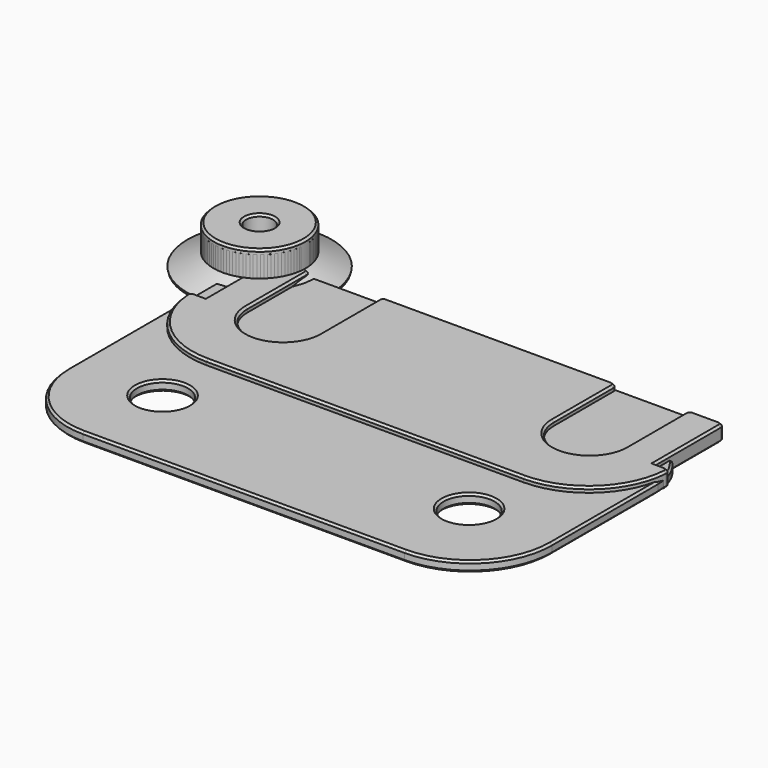
from build123d import *

# Parameters (mm, degrees)
SKETCH_W        = 94
SKETCH_H        = 62
PAD_DEPTH       = 2
FILLET_R        = 15
FILLET001_R     = 16
POCKET_DEPTH    = 2.001
FILLET002_R     = 1
FILLET003_R     = 3
SKETCH002_R     = 5
POCKET001_DEPTH = 2.001
CHAMFER_SIZE    = 0.4
CHAMFER001_SIZE = 1
CHAMFER002_SIZE = 0.4
CHAMFER006_SIZE = 0.4
POCKET006_DEPTH = 7.501
FILLET006_R     = 0.5
SKETCH007_W     = 94
SKETCH007_H     = 33
PAD001_DEPTH    = 3
POCKET004_DEPTH = 3.001
FILLET004_R     = 16
SKETCH009_W     = 3
SKETCH009_H     = 17
POCKET005_DEPTH = 3.001
FILLET005_R     = 1
CHAMFER005_SIZE = 0.4


with BuildPart() as body:
    # Sketch → Pad (new body)
    with BuildSketch(Plane.XY):
        with Locations((47, -31)):
            Rectangle(SKETCH_W, SKETCH_H)
    extrude(amount=PAD_DEPTH)

    # Fillet
    fillet_edges = [body.edges().sort_by_distance(p)[0] for p in [
        (0, -62, 1),
    ]]
    fillet(fillet_edges, radius=FILLET_R)

    # Fillet001
    fillet001_edges = [body.edges().sort_by_distance(p)[0] for p in [
        (94, -62, 1),
    ]]
    fillet(fillet001_edges, radius=FILLET001_R)

    # Sketch001 (on Face5 of Fillet001) → Pocket (cut, through all)
    with BuildSketch(Plane.XY.offset(2)):
        with BuildLine():
            ThreePointArc((94, -20), (91.071068, -12.928932), (84, -10))
            Line((84, -10), (84, 0))
            Line((94, 0), (84, 0))
            Line((94, 0), (94, -20))
        make_face()
    extrude(amount=-POCKET_DEPTH, mode=Mode.SUBTRACT)

    # Fillet002
    fillet002_edges = [body.edges().sort_by_distance(p)[0] for p in [
        (0, 0, 1),
        (84, 0, 1),
    ]]
    fillet(fillet002_edges, radius=FILLET002_R)

    # Fillet003
    fillet003_edges = [body.edges().sort_by_distance(p)[0] for p in [
        (84, -10, 1),
    ]]
    fillet(fillet003_edges, radius=FILLET003_R)

    # Sketch002 (on Face13 of Fillet003) → Pocket001 (cut, through all)
    with BuildSketch(Plane.XY.offset(2)):
        with Locations((17, -45)):
            Circle(SKETCH002_R)
        with Locations((77, -45)):
            Circle(SKETCH002_R)
    extrude(amount=-POCKET001_DEPTH, mode=Mode.SUBTRACT)

    # Chamfer
    chamfer_edges = [body.edges().sort_by_distance(p)[0] for p in [
        (84, -4.175445, 2),
        (84.646606, -9.21141, 2),
        (83.707107, -0.292893, 2),
        (91.844645, -13.798263, 2),
        (42, 0, 2),
        (94, -33, 2),
        (0.292893, -0.292893, 2),
        (89.313708, -57.313708, 2),
        (0, -24, 2),
        (46.5, -62, 2),
        (4.393398, -57.606602, 2),
        (12, -45, 2),
        (72, -45, 2),
        (84, -4.175445, 0),
        (84.646606, -9.21141, 0),
        (83.707107, -0.292893, 0),
        (91.844645, -13.798263, 0),
        (42, 0, 0),
        (94, -33, 0),
        (0.292893, -0.292893, 0),
        (89.313708, -57.313708, 0),
        (0, -24, 0),
        (46.5, -62, 0),
        (4.393398, -57.606602, 0),
        (12, -45, 0),
        (72, -45, 0),
    ]]
    chamfer(chamfer_edges, length=CHAMFER_SIZE)


with BuildPart() as body001:
    # Sketch003 → Revolution (revolve)
    with BuildSketch(Plane.XZ):
        Polygon((-15, 0), (-9, 3), (-9, 8), (-2.65, 8), (-2.65, 4.5), (-5.25, 4.5), (-5.25, 0), align=None)
    revolve(axis=Axis((0, 0, 0), (0, 0, 1)))

    # Chamfer001
    chamfer001_edges = [body001.edges().sort_by_distance(p)[0] for p in [
        (15, 0, 0),
    ]]
    chamfer(chamfer001_edges, length=CHAMFER001_SIZE)

    # Chamfer002
    chamfer002_edges = [body001.edges().sort_by_distance(p)[0] for p in [
        (2.65, 0, 8),
        (9, 0, 8),
        (5.25, 0, 0),
    ]]
    chamfer(chamfer002_edges, length=CHAMFER002_SIZE)


with BuildPart() as body002:
    # Sketch004 → Revolution001 (revolve)
    with BuildSketch(Plane.XZ):
        Polygon((-3.2, 5.5), (-3.7, 5), (-3.7, 2), (0, 2), (0, 0), (-9, 0), (-9, 7.5), (-3.95, 7.5), align=None)
    revolve(axis=Axis((0, 0, 0), (0, 0, 1)))

    # Chamfer006
    chamfer006_edges = [body002.edges().sort_by_distance(p)[0] for p in [
        (9, 0, 7.5),
        (9, 0, 0),
    ]]
    chamfer(chamfer006_edges, length=CHAMFER006_SIZE)

    # Sketch010 (on Face5 of Chamfer006) → Pocket006 (cut, through all)
    with BuildSketch(Plane(origin=(0, 0, 7.5), x_dir=(-1, 0, 0), z_dir=(0, 0, 1))):
        with BuildLine():
            ThreePointArc((5.91608, -1), (6, 0), (5.91608, 1))
            Line((-10, 1), (5.91608, 1))
            Line((-10, 1), (-10, -1))
            Line((-10, -1), (5.91608, -1))
        make_face()
    extrude(amount=-POCKET006_DEPTH, mode=Mode.SUBTRACT)

    # Fillet006
    fillet006_edges = [body002.edges().sort_by_distance(p)[0] for p in [
        (-5.91608, 1, 3.75),
        (-5.91608, -1, 3.75),
    ]]
    fillet(fillet006_edges, radius=FILLET006_R)


with BuildPart() as body003:
    # Sketch007 → Pad001 (new body)
    with BuildSketch(Plane.XY):
        with Locations((47, -16.5)):
            Rectangle(SKETCH007_W, SKETCH007_H)
    extrude(amount=PAD001_DEPTH)

    # Sketch008 (on Face6 of Pad001) → Pocket004 (cut, through all)
    with BuildSketch(Plane.XY.offset(3)):
        with BuildLine():
            ThreePointArc((10, -15.5), (17, -22.5), (24, -15.5))
            Line((24, 0), (24, -15.5))
            Line((10, 0), (24, 0))
            Line((10, -15.5), (10, 0))
        make_face()
        with BuildLine():
            ThreePointArc((70, -15.5), (77, -22.5), (84, -15.5))
            Line((84, 0), (84, -15.5))
            Line((70, 0), (84, 0))
            Line((70, -15.5), (70, 0))
        make_face()
    extrude(amount=-POCKET004_DEPTH, mode=Mode.SUBTRACT)

    # Fillet004
    fillet004_edges = [body003.edges().sort_by_distance(p)[0] for p in [
        (0, -33, 1.5),
        (94, -33, 1.5),
    ]]
    fillet(fillet004_edges, radius=FILLET004_R)

    # Sketch009 (on Face16 of Fillet004) → Pocket005 (cut, through all)
    with BuildSketch(Plane.XY.offset(3)):
        with Locations((1.5, -8.5)):
            Rectangle(SKETCH009_W, SKETCH009_H)
        with Locations((92.5, -8.5)):
            Rectangle(SKETCH009_W, SKETCH009_H)
    extrude(amount=-POCKET005_DEPTH, mode=Mode.SUBTRACT)

    # Fillet005
    fillet005_edges = [body003.edges().sort_by_distance(p)[0] for p in [
        (0, -17, 1.5),
        (3, 0, 1.5),
        (10, 0, 1.5),
        (24, 0, 1.5),
        (70, 0, 1.5),
        (84, 0, 1.5),
        (91, 0, 1.5),
        (94, -17, 1.5),
    ]]
    fillet(fillet005_edges, radius=FILLET005_R)

    # Chamfer005
    chamfer005_edges = [body003.edges().sort_by_distance(p)[0] for p in [
        (88.930081, -28.684748, 0),
        (93.696926, -17.31687, 0),
        (47, -33, 0),
        (91.983315, -17, 0),
        (5.069919, -28.684748, 0),
        (91, -9, 0),
        (0.303074, -17.31687, 0),
        (90.707107, -0.292893, 0),
        (2.016685, -17, 0),
        (87.5, 0, 0),
        (3, -9, 0),
        (84.292893, -0.292893, 0),
        (3.292893, -0.292893, 0),
        (84, -8.25, 0),
        (6.5, 0, 0),
        (77, -22.5, 0),
        (9.707107, -0.292893, 0),
        (70, -8.25, 0),
        (10, -8.25, 0),
        (69.707107, -0.292893, 0),
        (17, -22.5, 0),
        (47, 0, 0),
        (24, -8.25, 0),
        (24.292893, -0.292893, 0),
        (88.930081, -28.684748, 3),
        (93.696926, -17.31687, 3),
        (47, -33, 3),
        (91.983315, -17, 3),
        (5.069919, -28.684748, 3),
        (91, -9, 3),
        (0.303074, -17.31687, 3),
        (90.707107, -0.292893, 3),
        (2.016685, -17, 3),
        (87.5, 0, 3),
        (3, -9, 3),
        (84.292893, -0.292893, 3),
        (3.292893, -0.292893, 3),
        (84, -8.25, 3),
        (6.5, 0, 3),
        (77, -22.5, 3),
        (9.707107, -0.292893, 3),
        (70, -8.25, 3),
        (10, -8.25, 3),
        (69.707107, -0.292893, 3),
        (17, -22.5, 3),
        (47, 0, 3),
        (24, -8.25, 3),
        (24.292893, -0.292893, 3),
    ]]
    chamfer(chamfer005_edges, length=CHAMFER005_SIZE)


solid = Compound([body.part, body001.part, body002.part, body003.part])
